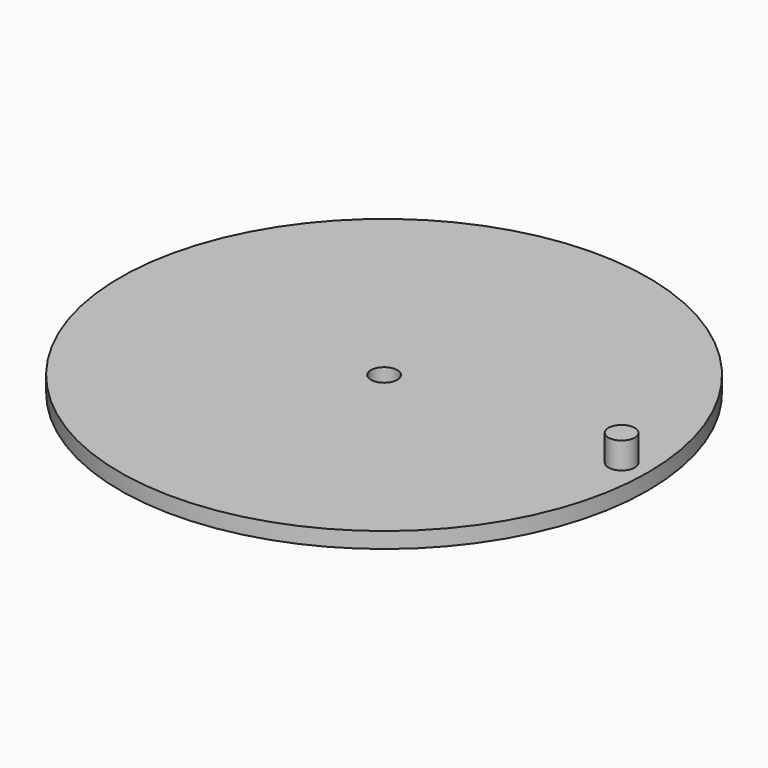
from build123d import *

# Parameters (mm, degrees)
SKETCH_R     = 50
SKETCH_R_2   = 2.5
PAD_DEPTH    = 3
SKETCH001_R  = 2.5
PAD001_DEPTH = 5


with BuildPart() as part:
    # Sketch → Pad (new body)
    with BuildSketch(Plane.XY):
        Circle(SKETCH_R)
        Circle(SKETCH_R_2, mode=Mode.SUBTRACT)
    extrude(amount=PAD_DEPTH)

    # Sketch001 (on Face4 of Pad) → Pad001 (join)
    with BuildSketch(Plane.XY.offset(3)):
        with Locations((45, 0)):
            Circle(SKETCH001_R)
    extrude(amount=PAD001_DEPTH)


solid = part.part
